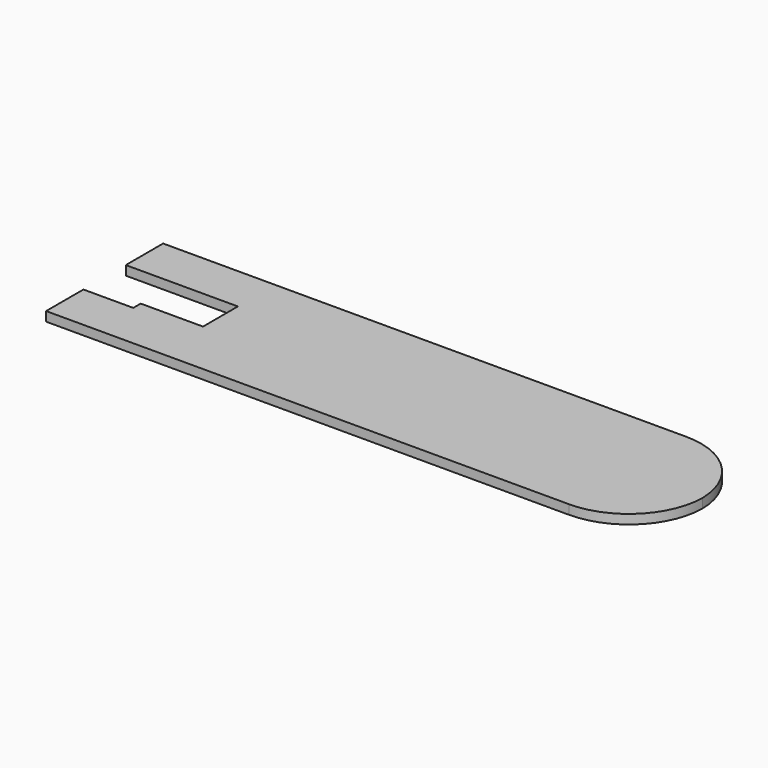
from build123d import *

# Parameters (mm, degrees)
F1_DEPTH = 9.525


with BuildPart() as f1:
    # F0 (on Top) → F1 (new body, symmetric)
    with BuildSketch(Plane.XY):
        with BuildLine():
            Line((1164.285257, 41.734285), (97.485257, 41.734285))
            Line((97.485257, 41.734285), (97.485257, -53.515715))
            Line((97.485257, -53.515715), (326.085257, -53.515715))
            Line((326.085257, -53.515715), (326.085257, -142.415715))
            Line((326.085257, -142.415715), (199.085257, -142.415715))
            Line((199.085257, -142.415715), (199.085257, -161.465715))
            Line((199.085257, -161.465715), (97.485257, -161.465715))
            Line((97.485257, -161.465715), (97.485257, -256.715715))
            Line((97.485257, -256.715715), (1164.285257, -256.715715))
            ThreePointArc((1164.285257, -256.715715), (1270.91989, -213.195534), (1316.65218, -107.490715))
            ThreePointArc((1316.65218, -107.490715), (1270.91989, -1.785896), (1164.285257, 41.734285))
        make_face()
    extrude(amount=F1_DEPTH, both=True)


solid = f1.part
